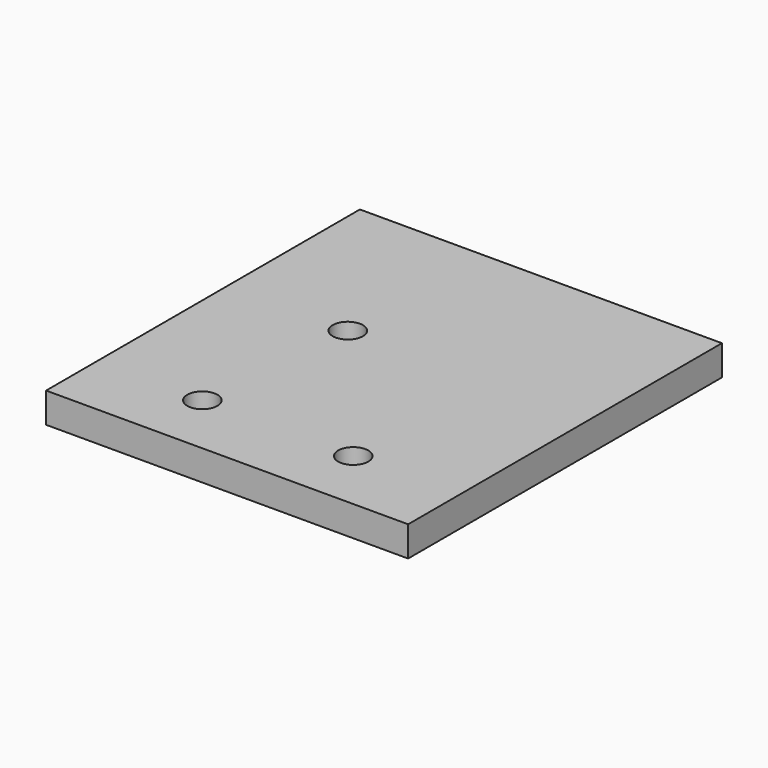
from build123d import *

# Parameters (mm, degrees)
F0_W     = 24
F0_H     = 26
F0_R     = 1
F1_DEPTH = 2


with BuildPart() as f1:
    # F0 (on Top) → F1 (new body)
    with BuildSketch(Plane.XY):
        with Locations((-12, 13)):
            Rectangle(F0_W, F0_H)
        with Locations((-17, 4.2)):
            Circle(F0_R, mode=Mode.SUBTRACT)
        with Locations((-7, 4.2)):
            Circle(F0_R, mode=Mode.SUBTRACT)
        with Locations((-16, 15)):
            Circle(F0_R, mode=Mode.SUBTRACT)
    extrude(amount=F1_DEPTH)


solid = f1.part
